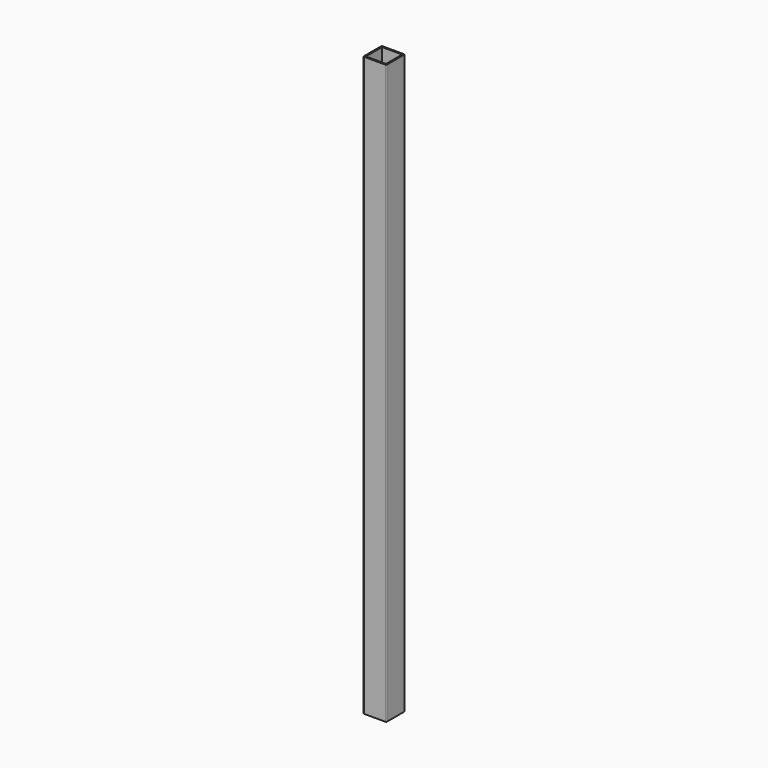
from build123d import *

# Parameters (mm, degrees)
SKETCH_W   = 25
SKETCH_H   = 25
SKETCH_W_2 = 22
SKETCH_H_2 = 22
PAD_DEPTH  = 630
FILLET_R   = 0.74


with BuildPart() as part:
    # Sketch → Pad (new body)
    with BuildSketch(Plane.XY):
        with Locations((12.5, 12.5)):
            Rectangle(SKETCH_W, SKETCH_H)
        with Locations((12.5, 12.5)):
            Rectangle(SKETCH_W_2, SKETCH_H_2, mode=Mode.SUBTRACT)
    extrude(amount=PAD_DEPTH)

    # Fillet
    fillet_edges = [part.edges().sort_by_distance(p)[0] for p in [
        (25, 0, 315),
        (0, 0, 315),
        (25, 25, 315),
        (0, 25, 315),
    ]]
    fillet(fillet_edges, radius=FILLET_R)


solid = part.part
